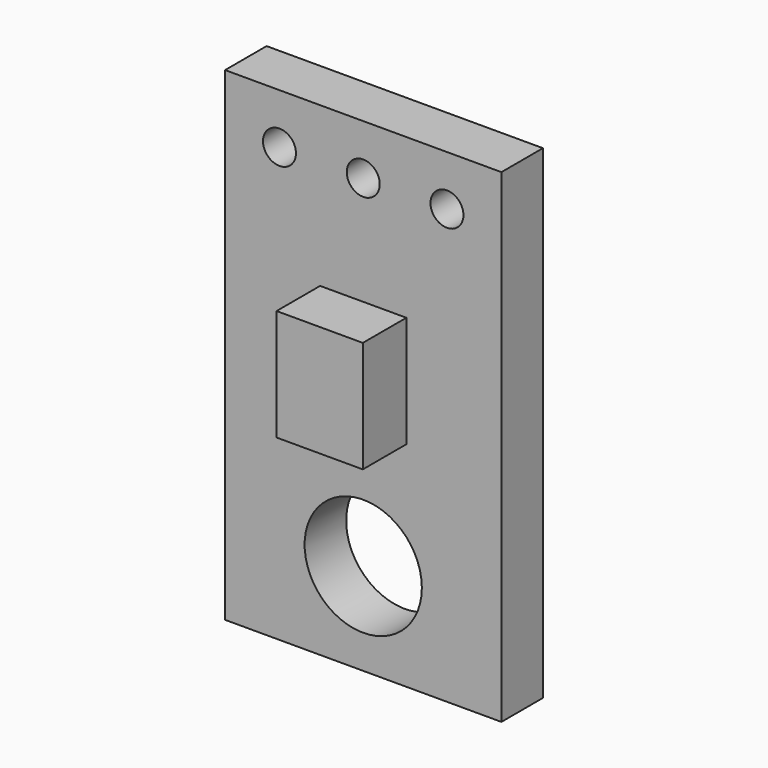
from build123d import *

# Parameters (mm, degrees)
F0_W     = 8.382
F0_H     = 14.6812
F0_R     = 1.778
F0_R_2   = 0.5
F1_DEPTH = 1.5748
F2_W     = 2.6162
F2_H     = 3.3782
F3_DEPTH = 1.651


with BuildPart() as f1:
    # F0 (on Front) → F1 (new body)
    with BuildSketch(Plane.XZ):
        with Locations((4.191, 7.3406)):
            Rectangle(F0_W, F0_H)
        with Locations((4.191, 2.794)):
            Circle(F0_R, mode=Mode.SUBTRACT)
        with Locations((1.651, 13.1572)):
            Circle(F0_R_2, mode=Mode.SUBTRACT)
        with Locations((4.191, 13.1572)):
            Circle(F0_R_2, mode=Mode.SUBTRACT)
        with Locations((6.731, 13.1572)):
            Circle(F0_R_2, mode=Mode.SUBTRACT)
    extrude(amount=F1_DEPTH)

    # F2 (on face) → F3 (join)
    with BuildSketch(Plane.XZ.offset(1.5748)):
        with Locations((4.191, 8.1661)):
            Rectangle(F2_W, F2_H)
    extrude(amount=F3_DEPTH)


solid = f1.part
